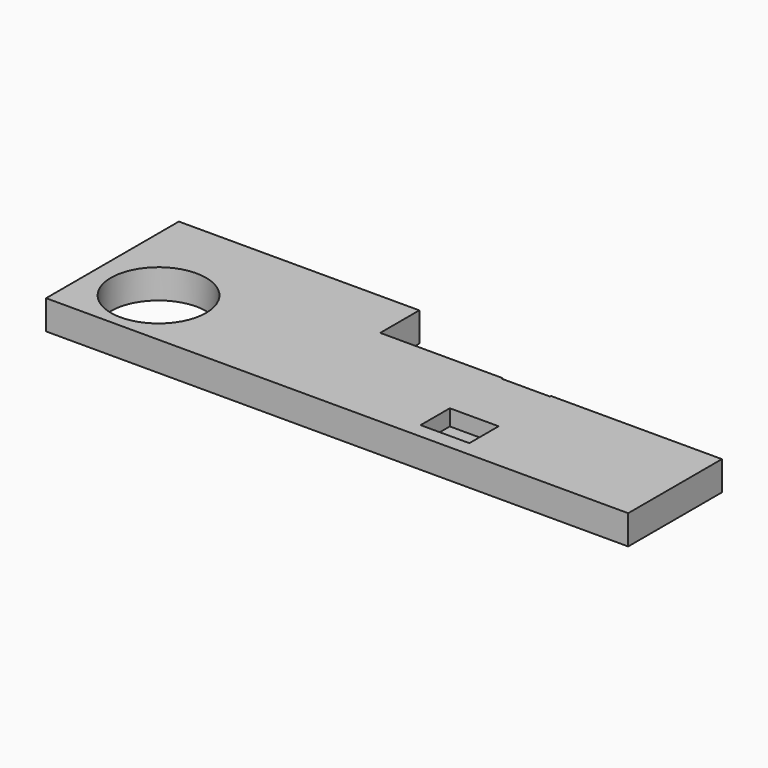
from build123d import *

# Parameters (mm, degrees)
F0_R     = 4.875428
F0_W     = 35
F0_H     = 12
F1_DEPTH = 3
F2_W     = 3.357807
F2_H     = 1.678903
F2_W_2   = 3.745247
F2_H_2   = 2.324635
F3_DEPTH = 5


with BuildPart() as f1:
    # F0 (on Top) → F1 (new body)
    with BuildSketch(Plane.XY):
        Polygon((-42.125307, -6), (-17.5, -6), (-17.5, 6), (-17.5, 11.001155), (-42.125307, 11.001155), align=None)
        with Locations((-35.409693, 0)):
            Circle(F0_R, mode=Mode.SUBTRACT)
        Rectangle(F0_W, F0_H)
    extrude(amount=F1_DEPTH)

    # F2 (on Right) → F3 (cut)
    with BuildSketch(Plane.YZ):
        with Locations((7.550389, 2.522841)):
            Rectangle(F2_W, F2_H)
        with Locations((-2.587604, 2.522841)):
            Rectangle(F2_W_2, F2_H_2)
    extrude(amount=-F3_DEPTH, mode=Mode.SUBTRACT)


solid = f1.part
